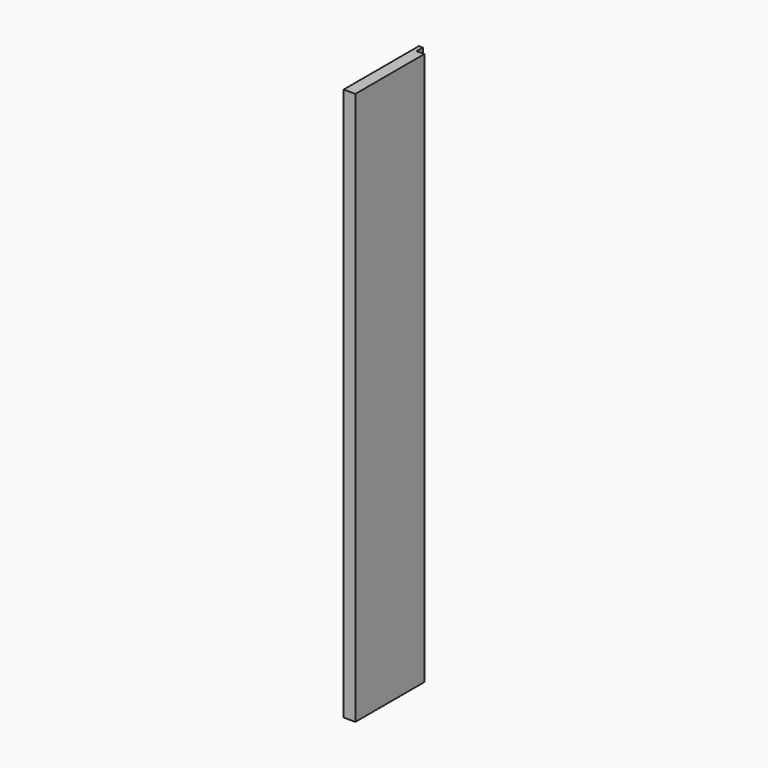
from build123d import *

# Parameters (mm, degrees)
F0_W     = 152.4
F0_H     = 895.35
F1_DEPTH = 19.05
F2_W     = 12.7
F2_H     = 12.7
F3_DEPTH = 895.351


with BuildPart() as f1:
    # F0 (on Right) → F1 (new body)
    with BuildSketch(Plane.YZ):
        with Locations((-76.2, 447.675)):
            Rectangle(F0_W, F0_H)
    extrude(amount=F1_DEPTH)

    # F2 (on Top) → F3 (cut, through all)
    with BuildSketch(Plane.XY):
        with Locations((12.7, -6.35)):
            Rectangle(F2_W, F2_H)
    extrude(amount=F3_DEPTH, mode=Mode.SUBTRACT)


solid = f1.part
